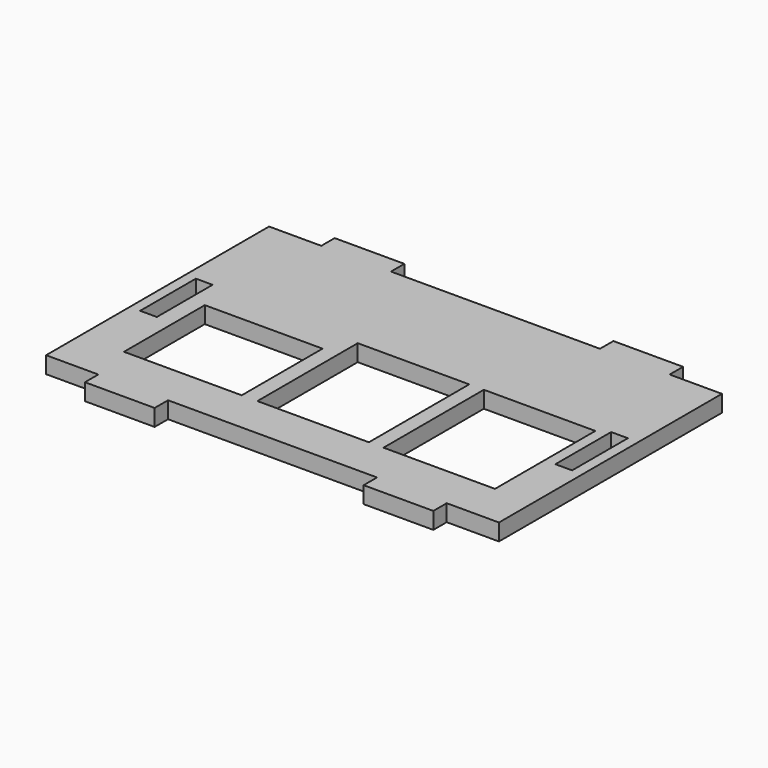
from build123d import *

# Parameters (mm, degrees)
F0_W     = 16.9
F0_H     = 14.5
F0_W_2   = 16
F0_H_2   = 18
F0_W_3   = 2.4
F0_H_3   = 10
F1_DEPTH = 2.4


with BuildPart() as f1:
    # F0 (on Top) → F1 (new body)
    with BuildSketch(Plane.XY):
        Polygon((32.5, -20), (32.5, 20), (25, 20), (25, 22.4), (15, 22.4), (15, 20), (-15, 20), (-15, 22.4), (-25, 22.4), (-25, 20), (-32.5, 20), (-32.5, -20), (-25, -20), (-25, -22.4), (-15, -22.4), (-15, -20), (7.5, -20), (15, -20), (15, -22.4), (25, -22.4), (25, -20), align=None)
        with Locations((-17.75, -6.65)):
            Rectangle(F0_W, F0_H, mode=Mode.SUBTRACT)
        with Locations((0.95, -4.9)):
            Rectangle(F0_W_2, F0_H_2, mode=Mode.SUBTRACT)
        with Locations((19.05, -4.9)):
            Rectangle(F0_W_2, F0_H_2, mode=Mode.SUBTRACT)
        with Locations((-29.8, 0)):
            Rectangle(F0_W_3, F0_H_3, mode=Mode.SUBTRACT)
        with Locations((29.8, 0)):
            Rectangle(F0_W_3, F0_H_3, mode=Mode.SUBTRACT)
    extrude(amount=F1_DEPTH)


solid = f1.part
